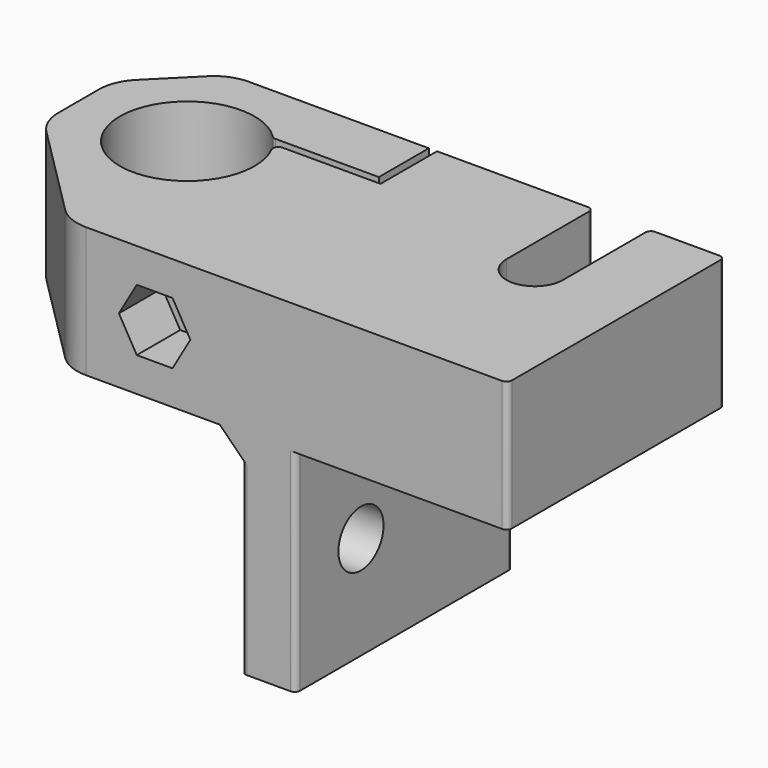
from build123d import *

# Parameters (mm, degrees)
PAD_DEPTH       = 31.5
SKETCH001_W     = 20
SKETCH001_H     = 30
SKETCH001_W_2   = 27
POCKET_DEPTH    = 19.5
SKETCH002_R     = 2.6
POCKET001_DEPTH = 24.501
SKETCH003_R     = 1.7
POCKET002_DEPTH = 25.001
SKETCH004_R     = 3
POCKET003_DEPTH = 3
POCKET004_DEPTH = 5
CHAMFER_SIZE    = 2
FILLET_R        = 0.5


with BuildPart() as body:
    # Sketch → Pad (new body)
    with BuildSketch(Plane.XY):
        with BuildLine():
            ThreePointArc((-0.171573, -13.828427), (1.126121, -14.695518), (2.656854, -15))
            Line((41.00007, -14.999422), (2.656854, -15))
            ThreePointArc((41.00007, -14.999422), (41.353579, -14.85295), (41.5, -14.499421))
            Line((41.5, 9.5), (41.5, -14.499421))
            ThreePointArc((41.5, 9.5), (41.353578, 9.853528), (41.000071, 10))
            Line((34.6, 10), (41.000071, 10))
            Line((34.6, 10), (34.6, 0))
            ThreePointArc((29.4, 0), (32, -2.6), (34.6, 0))
            Line((29.4, 0), (29.4, 10))
            Line((15, 10), (29.4, 10))
            Line((15, 3.5), (15, 10))
            Line((5.990826, 3.5), (15, 3.5))
            ThreePointArc((5.990826, 3.5), (5.56542, 3.262735), (5.54375, 2.776119))
            ThreePointArc((4.372572, 4.395522), (-5.023841, -3.633322), (5.54375, 2.776119))
            ThreePointArc((4.372572, 4.395522), (4.534461, 4.28781), (4.725198, 4.25))
            Line((14.25, 4.25), (4.725198, 4.25))
            Line((14.25, 10), (14.25, 4.25))
            Line((-2.343146, 10), (14.25, 10))
            ThreePointArc((-2.343146, 10), (-3.873879, 9.695518), (-5.171573, 8.828427))
            Line((-5.171573, 8.828427), (-8.828427, 5.171573))
            ThreePointArc((-8.828427, 5.171573), (-9.695518, 3.873879), (-10, 2.343146))
            Line((-10, -2.343146), (-10, 2.343146))
            ThreePointArc((-10, -2.343146), (-9.695518, -3.873879), (-8.828427, -5.171573))
            Line((-8.828427, -5.171573), (-0.171573, -13.828427))
        make_face()
    extrude(amount=PAD_DEPTH)

    # Sketch001 (on Face26 of Pad) → Pocket (cut)
    with BuildSketch(Plane.XY.offset(31.5)):
        with Locations((32, 0)):
            Rectangle(SKETCH001_W, SKETCH001_H)
        with Locations((3.5, 0)):
            Rectangle(SKETCH001_W_2, SKETCH001_H)
    extrude(amount=-POCKET_DEPTH, mode=Mode.SUBTRACT)

    # Sketch002 (on Face29 of Pocket) → Pocket001 (cut, through all)
    with BuildSketch(Plane(origin=(17, 0, 0), x_dir=(0, -1, 0), z_dir=(-1, 0, 0))):
        with Locations((7.5, 22)):
            Circle(SKETCH002_R)
    extrude(amount=-POCKET001_DEPTH, mode=Mode.SUBTRACT)

    # Sketch003 (on Face13 of Pocket001) → Pocket002 (cut, through all)
    with BuildSketch(Plane(origin=(0, 10, 0), x_dir=(-1, 0, 0), z_dir=(0, 1, 0))):
        with Locations((-9, 6)):
            Circle(SKETCH003_R)
    extrude(amount=-POCKET002_DEPTH, mode=Mode.SUBTRACT)

    # Sketch004 (on Face13 of Pocket002) → Pocket003 (cut)
    with BuildSketch(Plane(origin=(0, 10, 0), x_dir=(-1, 0, 0), z_dir=(0, 1, 0))):
        with Locations((-9, 6)):
            Circle(SKETCH004_R)
    extrude(amount=-POCKET003_DEPTH, mode=Mode.SUBTRACT)

    # Sketch005 (on Face21 of Pocket003) → Pocket004 (cut)
    with BuildSketch(Plane(origin=(0.000226, -15.00004, 0), x_dir=(1, 1.5e-05, 0), z_dir=(1.5e-05, -1, 0))):
        Polygon((10.645448, 3.15), (12.290897, 6), (10.645448, 8.85), (7.354552, 8.85), (5.709103, 6), (7.354552, 3.15), align=None)
    extrude(amount=-POCKET004_DEPTH, mode=Mode.SUBTRACT)

    # Chamfer
    chamfer_edges = [body.edges().sort_by_distance(p)[0] for p in [
        (17, -2.499892, 12),
    ]]
    chamfer(chamfer_edges, length=CHAMFER_SIZE)

    # Fillet
    fillet_edges = [body.edges().sort_by_distance(p)[0] for p in [
        (34.6, 10, 6),
        (29.4, 10, 6),
        (22, 10, 21.75),
        (22, -14.999708, 21.75),
        (17, 10, 22.75),
        (17, -14.999784, 22.75),
    ]]
    fillet(fillet_edges, radius=FILLET_R)


with BuildPart() as part_mirroring:
    # Part__Mirroring: instance of Body
    add(body.part.mirror(Plane(origin=(15.75, -2.5, 0), x_dir=(0, 1, 0), z_dir=(0, 0, 1))))


solid = part_mirroring.part
